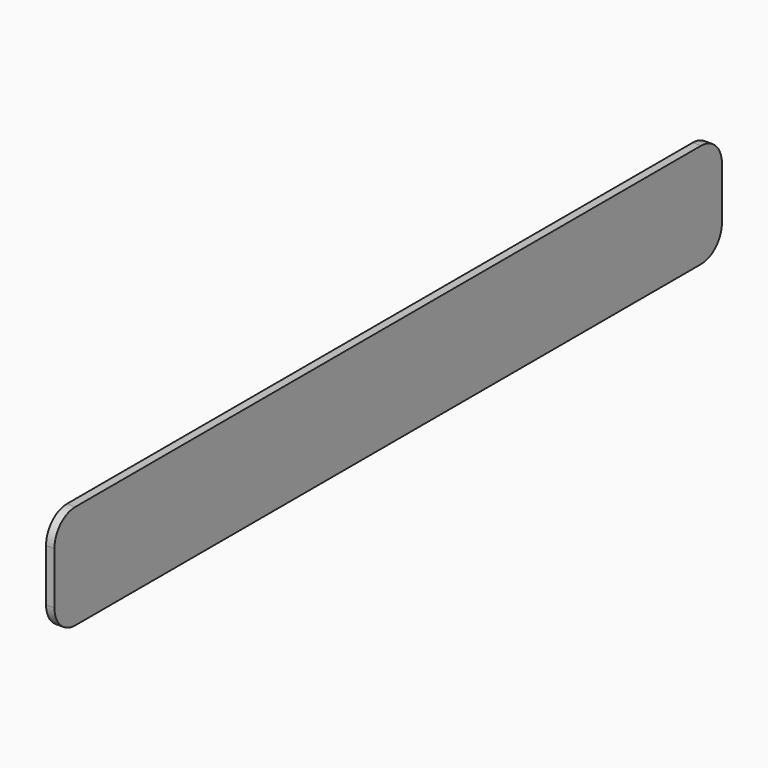
from build123d import *

# Parameters (mm, degrees)
F1_DEPTH = 2.032


with BuildPart() as f1:
    # F0 (on Right) → F1 (new body)
    with BuildSketch(Plane.YZ):
        with BuildLine():
            ThreePointArc((-95.25, 25.4), (-99.740128, 23.540128), (-101.6, 19.05))
            Line((-101.6, 19.05), (-101.6, 6.35))
            ThreePointArc((-101.6, 6.35), (-99.740128, 1.859872), (-95.25, 0))
            Line((-95.25, 0), (95.25, 0))
            ThreePointArc((95.25, 0), (99.740128, 1.859872), (101.6, 6.35))
            Line((101.6, 6.35), (101.6, 19.05))
            ThreePointArc((101.6, 19.05), (99.740128, 23.540128), (95.25, 25.4))
            Line((95.25, 25.4), (-95.25, 25.4))
        make_face()
    extrude(amount=F1_DEPTH)


solid = f1.part
